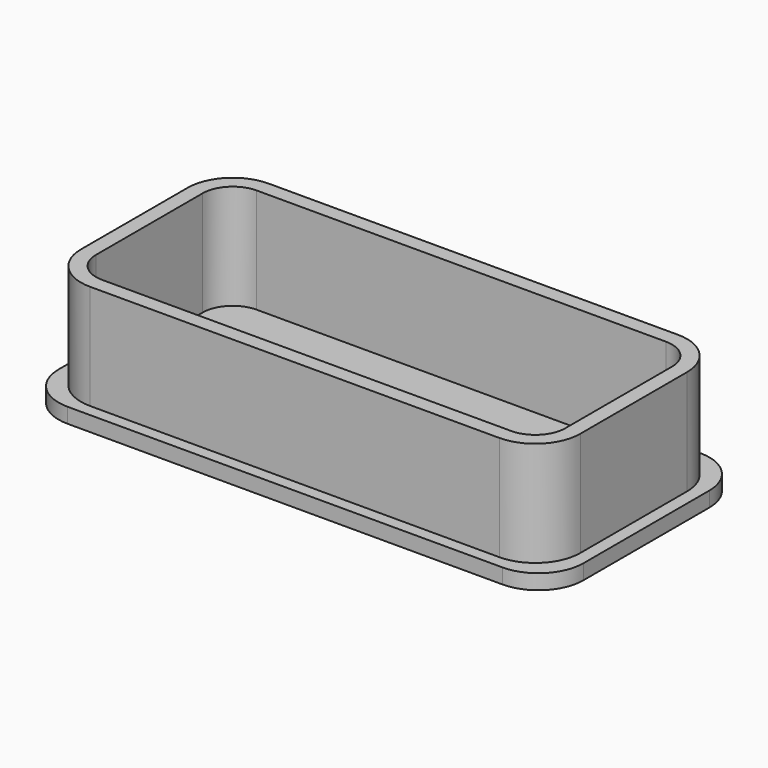
from build123d import *

# Parameters (mm, degrees)
F1_DEPTH = 8
F2_T     = -1
F4_DEPTH = 1


with BuildPart() as f1:
    # F0 (on Top) → F1 (new body)
    with BuildSketch(Plane.XY):
        with BuildLine():
            Line((-13.65, -7.45), (13.65, -7.45))
            ThreePointArc((13.65, -7.45), (15.7713203436, -6.5713203436), (16.65, -4.45))
            Line((16.65, -4.45), (16.65, 4.45))
            ThreePointArc((16.65, 4.45), (15.7713203436, 6.5713203436), (13.65, 7.45))
            Line((13.65, 7.45), (-13.65, 7.45))
            ThreePointArc((-13.65, 7.45), (-15.7713203436, 6.5713203436), (-16.65, 4.45))
            Line((-16.65, 4.45), (-16.65, -4.45))
            ThreePointArc((-16.65, -4.45), (-15.7713203436, -6.5713203436), (-13.65, -7.45))
        make_face()
    extrude(amount=F1_DEPTH)

    # F2
    f2_openings = [f1.faces().sort_by_distance(p)[0] for p in [
        (0, 0, 8),
    ]]
    offset(amount=F2_T, openings=f2_openings)

    # F3 (on face) → F4 (join)
    with BuildSketch(Plane(origin=(0, 0, 0), x_dir=(1, 0, 0), z_dir=(0, 0, -1))):
        with BuildLine():
            Line((-14.5, -8.25), (14.5, -8.25))
            ThreePointArc((14.5, -8.25), (16.6213203436, -7.3713203436), (17.5, -5.25))
            Line((17.5, -5.25), (17.5, 5.25))
            ThreePointArc((17.5, 5.25), (16.6213203436, 7.3713203436), (14.5, 8.25))
            Line((14.5, 8.25), (-14.5, 8.25))
            ThreePointArc((-14.5, 8.25), (-16.6213203436, 7.3713203436), (-17.5, 5.25))
            Line((-17.5, 5.25), (-17.5, -5.25))
            ThreePointArc((-17.5, -5.25), (-16.6213203436, -7.3713203436), (-14.5, -8.25))
        make_face()
        with BuildLine():
            Line((-13.65, 7.45), (13.65, 7.45))
            ThreePointArc((13.65, 7.45), (15.7713203436, 6.5713203436), (16.65, 4.45))
            Line((16.65, 4.45), (16.65, -4.45))
            ThreePointArc((16.65, -4.45), (15.7713203436, -6.5713203436), (13.65, -7.45))
            Line((13.65, -7.45), (-13.65, -7.45))
            ThreePointArc((-13.65, -7.45), (-15.7713203436, -6.5713203436), (-16.65, -4.45))
            Line((-16.65, -4.45), (-16.65, 4.45))
            ThreePointArc((-16.65, 4.45), (-15.7713203436, 6.5713203436), (-13.65, 7.45))
        make_face(mode=Mode.SUBTRACT)
    extrude(amount=-F4_DEPTH)


solid = f1.part
